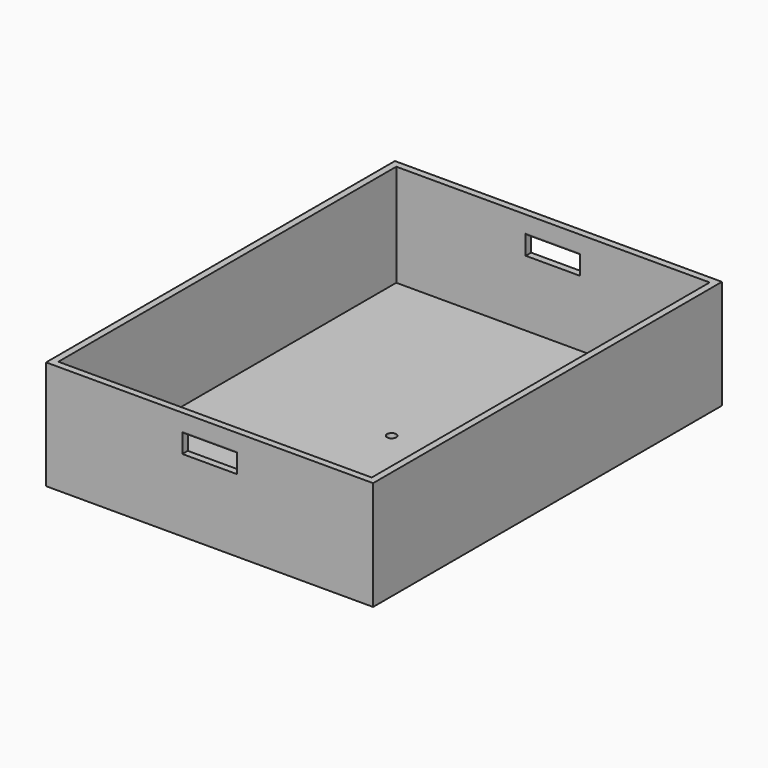
from build123d import *

# Parameters (mm, degrees)
F0_W     = 914.4
F0_H     = 1219.2
F1_DEPTH = 304.8
F2_T     = -19.05
F3_W     = 152.4
F3_H     = 50.8
F4_DEPTH = 1280.16
F5_R     = 5.08
F6_R     = 12.7
F7_DEPTH = 25.4


with BuildPart() as f1:
    # F0 (on Top) → F1 (new body)
    with BuildSketch(Plane.XY):
        with Locations((-5.7078478858, -19.3861435029)):
            Rectangle(F0_W, F0_H)
    extrude(amount=F1_DEPTH)

    # F2
    f2_openings = [f1.faces().sort_by_distance(p)[0] for p in [
        (-5.707848, -19.386144, 304.8),
    ]]
    offset(amount=F2_T, openings=f2_openings)

    # F3 (on face) → F4 (cut)
    with BuildSketch(Plane.XZ.offset(628.9861435029)):
        with Locations((-5.7078478858, 228.6)):
            Rectangle(F3_W, F3_H)
    extrude(amount=-F4_DEPTH, mode=Mode.SUBTRACT)

    # F5
    f5_edges = [f1.edges().sort_by_distance(p)[0] for p in [
        (-5.707848, -609.936144, 254),
        (-5.707848, -628.986144, 254),
        (-5.707848, 571.163856, 254),
        (-5.707848, 590.213856, 254),
    ]]
    fillet(f5_edges, radius=F5_R)

    # F6 (on face) → F7 (cut)
    with BuildSketch(Plane.XY.offset(19.05)):
        Circle(F6_R)
    extrude(amount=-F7_DEPTH, mode=Mode.SUBTRACT)


solid = f1.part
